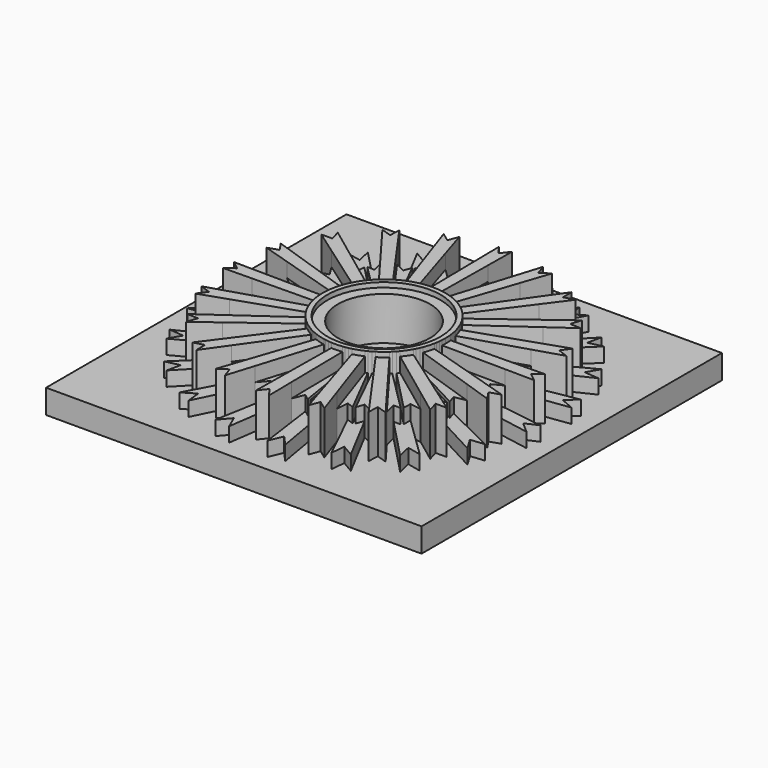
from build123d import *

# Parameters (mm, degrees)
F1_W     = 77.97701
F1_H     = 77.97701
F2_DEPTH = 5
F3_DEPTH = 3
F4_DEPTH = 6
F0_R     = 11.767241
F0_R_2   = 9.554921
F5_DEPTH = 9
F6_DEPTH = 10


with BuildPart() as f2:
    # F1 (on face) → F2 (new body)
    with BuildSketch(Plane.XY):
        Rectangle(F1_W, F1_H)
    extrude(amount=-F2_DEPTH)

    # F0 (on Top) → F3 (join)
    with BuildSketch(Plane.XY):
        with BuildLine():
            Line((4.330843, -24.487549), (2.609234, -12.467034))
            ThreePointArc((2.609234, -12.467034), (2.272273, -12.532829), (1.933662, -12.589519))
            Line((1.933662, -12.589519), (3.851701, -24.605483))
            Line((3.851701, -24.605483), (2.640996, -23.701126))
            Line((2.640996, -23.701126), (4.277403, -35.529581))
            Line((4.277403, -35.529581), (5.46514, -32.738343))
            Line((5.46514, -32.738343), (7.420602, -34.936777))
            Line((7.420602, -34.936777), (5.377834, -23.155001))
            Line((5.377834, -23.155001), (4.330843, -24.487549))
        make_face()
        with BuildLine():
            Line((11.685945, -21.950738), (6.334054, -11.050556))
            ThreePointArc((6.334054, -11.050556), (6.033918, -11.217258), (5.729397, -11.375809))
            Line((5.729397, -11.375809), (11.266698, -22.210964))
            Line((11.266698, -22.210964), (9.835788, -21.724998))
            Line((9.835788, -21.724998), (15.047296, -32.468849))
            Line((15.047296, -32.468849), (15.314361, -29.447193))
            Line((15.314361, -29.447193), (17.85347, -30.933757))
            Line((17.85347, -30.933757), (12.269913, -20.359873))
            Line((12.269913, -20.359873), (11.685945, -21.950738))
        make_face()
        with BuildLine():
            Line((17.897146, -17.265237), (9.438853, -8.552373))
            ThreePointArc((9.438853, -8.552373), (9.20492, -8.803663), (8.964299, -9.048556))
            Line((8.964299, -9.048556), (17.578832, -17.642281))
            Line((17.578832, -17.642281), (16.067783, -17.622275))
            Line((16.067783, -17.622275), (24.344255, -26.229841))
            Line((24.344255, -26.229841), (23.664506, -23.273547))
            Line((23.664506, -23.273547), (26.538716, -23.902726))
            Line((26.538716, -23.902726), (17.960927, -15.571778))
            Line((17.960927, -15.571778), (17.897146, -17.265237))
        make_face()
        with BuildLine():
            Line((22.356449, -10.889694), (11.619711, -5.217024))
            ThreePointArc((11.619711, -5.217024), (11.47488, -5.528304), (11.321713, -5.835568))
            Line((11.321713, -5.835568), (22.170227, -11.346648))
            Line((22.170227, -11.346648), (20.726953, -11.794562))
            Line((20.726953, -11.794562), (31.258229, -17.423272))
            Line((31.258229, -17.423272), (29.698204, -14.821724))
            Line((29.698204, -14.821724), (32.626167, -14.531929))
            Line((32.626167, -14.531929), (21.893801, -9.259409))
            Line((21.893801, -9.259409), (22.356449, -10.889694))
        make_face()
        with BuildLine():
            Line((24.627347, -3.448192), (12.663151, -1.370997))
            ThreePointArc((12.663151, -1.370997), (12.6216, -1.711797), (12.570878, -2.051353))
            Line((12.570878, -2.051353), (24.591446, -3.940327))
            Line((24.591446, -3.940327), (23.357223, -4.812314))
            Line((23.357223, -4.812314), (35.11243, -6.911192))
            Line((35.11243, -6.911192), (32.824835, -4.919047))
            Line((32.824835, -4.919047), (35.519942, -3.738646))
            Line((35.519942, -3.738646), (23.683557, -2.040665))
            Line((23.683557, -2.040665), (24.627347, -3.448192))
        make_face()
        with BuildLine():
            ThreePointArc((12.467034, 2.609234), (12.532829, 2.272273), (12.589519, 1.933662))
            Line((12.589519, 1.933662), (24.605483, 3.851701))
            Line((24.605483, 3.851701), (23.701126, 2.640996))
            Line((23.701126, 2.640996), (35.529581, 4.277403))
            Line((35.529581, 4.277403), (32.738343, 5.46514))
            Line((32.738343, 5.46514), (34.936777, 7.420602))
            Line((34.936777, 7.420602), (23.155001, 5.377834))
            Line((23.155001, 5.377834), (24.487549, 4.330843))
            Line((24.487549, 4.330843), (12.467034, 2.609234))
        make_face()
        with BuildLine():
            ThreePointArc((11.050556, 6.334054), (11.217258, 6.033918), (11.375809, 5.729397))
            Line((11.375809, 5.729397), (22.210964, 11.266698))
            Line((22.210964, 11.266698), (21.724998, 9.835788))
            Line((21.724998, 9.835788), (32.468849, 15.047296))
            Line((32.468849, 15.047296), (29.447193, 15.314361))
            Line((29.447193, 15.314361), (30.933757, 17.85347))
            Line((30.933757, 17.85347), (20.359873, 12.269913))
            Line((20.359873, 12.269913), (21.950738, 11.685945))
            Line((21.950738, 11.685945), (11.050556, 6.334054))
        make_face()
        with BuildLine():
            ThreePointArc((8.552373, 9.438853), (8.803663, 9.20492), (9.048556, 8.964299))
            Line((9.048556, 8.964299), (17.642281, 17.578832))
            Line((17.642281, 17.578832), (17.622275, 16.067783))
            Line((17.622275, 16.067783), (26.229841, 24.344255))
            Line((26.229841, 24.344255), (23.273547, 23.664506))
            Line((23.273547, 23.664506), (23.902726, 26.538716))
            Line((23.902726, 26.538716), (15.571778, 17.960927))
            Line((15.571778, 17.960927), (17.265237, 17.897146))
            Line((17.265237, 17.897146), (8.552373, 9.438853))
        make_face()
        with BuildLine():
            ThreePointArc((5.217024, 11.619711), (5.528304, 11.47488), (5.835568, 11.321713))
            Line((5.835568, 11.321713), (11.346648, 22.170227))
            Line((11.346648, 22.170227), (11.794562, 20.726953))
            Line((11.794562, 20.726953), (17.423272, 31.258229))
            Line((17.423272, 31.258229), (14.821724, 29.698204))
            Line((14.821724, 29.698204), (14.531929, 32.626167))
            Line((14.531929, 32.626167), (9.259409, 21.893801))
            Line((9.259409, 21.893801), (10.889694, 22.356449))
            Line((10.889694, 22.356449), (5.217024, 11.619711))
        make_face()
        with BuildLine():
            ThreePointArc((1.370997, 12.663151), (1.711797, 12.6216), (2.051353, 12.570878))
            Line((2.051353, 12.570878), (3.940327, 24.591446))
            Line((3.940327, 24.591446), (4.812314, 23.357223))
            Line((4.812314, 23.357223), (6.911192, 35.11243))
            Line((6.911192, 35.11243), (4.919047, 32.824835))
            Line((4.919047, 32.824835), (3.738646, 35.519942))
            Line((3.738646, 35.519942), (2.040665, 23.683557))
            Line((2.040665, 23.683557), (3.448192, 24.627347))
            Line((3.448192, 24.627347), (1.370997, 12.663151))
        make_face()
        with BuildLine():
            ThreePointArc((-2.609234, 12.467034), (-2.272273, 12.532829), (-1.933662, 12.589519))
            Line((-1.933662, 12.589519), (-3.851701, 24.605483))
            Line((-3.851701, 24.605483), (-2.640996, 23.701126))
            Line((-2.640996, 23.701126), (-4.277403, 35.529581))
            Line((-4.277403, 35.529581), (-5.46514, 32.738343))
            Line((-5.46514, 32.738343), (-7.420602, 34.936777))
            Line((-7.420602, 34.936777), (-5.377834, 23.155001))
            Line((-5.377834, 23.155001), (-4.330843, 24.487549))
            Line((-4.330843, 24.487549), (-2.609234, 12.467034))
        make_face()
        with BuildLine():
            ThreePointArc((-6.334054, 11.050556), (-6.033918, 11.217258), (-5.729397, 11.375809))
            Line((-5.729397, 11.375809), (-11.266698, 22.210964))
            Line((-11.266698, 22.210964), (-9.835788, 21.724998))
            Line((-9.835788, 21.724998), (-15.047296, 32.468849))
            Line((-15.047296, 32.468849), (-15.314361, 29.447193))
            Line((-15.314361, 29.447193), (-17.85347, 30.933757))
            Line((-17.85347, 30.933757), (-12.269913, 20.359873))
            Line((-12.269913, 20.359873), (-11.685945, 21.950738))
            Line((-11.685945, 21.950738), (-6.334054, 11.050556))
        make_face()
        with BuildLine():
            ThreePointArc((-9.438853, 8.552373), (-9.20492, 8.803663), (-8.964299, 9.048556))
            Line((-8.964299, 9.048556), (-17.578832, 17.642281))
            Line((-17.578832, 17.642281), (-16.067783, 17.622275))
            Line((-16.067783, 17.622275), (-24.344255, 26.229841))
            Line((-24.344255, 26.229841), (-23.664506, 23.273547))
            Line((-23.664506, 23.273547), (-26.538716, 23.902726))
            Line((-26.538716, 23.902726), (-17.960927, 15.571778))
            Line((-17.960927, 15.571778), (-17.897146, 17.265237))
            Line((-17.897146, 17.265237), (-9.438853, 8.552373))
        make_face()
        with BuildLine():
            ThreePointArc((-11.619711, 5.217024), (-11.47488, 5.528304), (-11.321713, 5.835568))
            Line((-11.321713, 5.835568), (-22.170227, 11.346648))
            Line((-22.170227, 11.346648), (-20.726953, 11.794562))
            Line((-20.726953, 11.794562), (-31.258229, 17.423272))
            Line((-31.258229, 17.423272), (-29.698204, 14.821724))
            Line((-29.698204, 14.821724), (-32.626167, 14.531929))
            Line((-32.626167, 14.531929), (-21.893801, 9.259409))
            Line((-21.893801, 9.259409), (-22.356449, 10.889694))
            Line((-22.356449, 10.889694), (-11.619711, 5.217024))
        make_face()
        with BuildLine():
            ThreePointArc((-12.663151, 1.370997), (-12.6216, 1.711797), (-12.570878, 2.051353))
            Line((-12.570878, 2.051353), (-24.591446, 3.940327))
            Line((-24.591446, 3.940327), (-23.357223, 4.812314))
            Line((-23.357223, 4.812314), (-35.11243, 6.911192))
            Line((-35.11243, 6.911192), (-32.824835, 4.919047))
            Line((-32.824835, 4.919047), (-35.519942, 3.738646))
            Line((-35.519942, 3.738646), (-23.683557, 2.040665))
            Line((-23.683557, 2.040665), (-24.627347, 3.448192))
            Line((-24.627347, 3.448192), (-12.663151, 1.370997))
        make_face()
        with BuildLine():
            Line((-24.487549, -4.330843), (-12.467034, -2.609234))
            ThreePointArc((-12.467034, -2.609234), (-12.532829, -2.272273), (-12.589519, -1.933662))
            Line((-12.589519, -1.933662), (-24.605483, -3.851701))
            Line((-24.605483, -3.851701), (-23.701126, -2.640996))
            Line((-23.701126, -2.640996), (-35.529581, -4.277403))
            Line((-35.529581, -4.277403), (-32.738343, -5.46514))
            Line((-32.738343, -5.46514), (-34.936777, -7.420602))
            Line((-34.936777, -7.420602), (-23.155001, -5.377834))
            Line((-23.155001, -5.377834), (-24.487549, -4.330843))
        make_face()
        with BuildLine():
            Line((-21.950738, -11.685945), (-11.050556, -6.334054))
            ThreePointArc((-11.050556, -6.334054), (-11.217258, -6.033918), (-11.375809, -5.729397))
            Line((-11.375809, -5.729397), (-22.210964, -11.266698))
            Line((-22.210964, -11.266698), (-21.724998, -9.835788))
            Line((-21.724998, -9.835788), (-32.468849, -15.047296))
            Line((-32.468849, -15.047296), (-29.447193, -15.314361))
            Line((-29.447193, -15.314361), (-30.933757, -17.85347))
            Line((-30.933757, -17.85347), (-20.359873, -12.269913))
            Line((-20.359873, -12.269913), (-21.950738, -11.685945))
        make_face()
        with BuildLine():
            Line((-17.265237, -17.897146), (-8.552373, -9.438853))
            ThreePointArc((-8.552373, -9.438853), (-8.803663, -9.20492), (-9.048556, -8.964299))
            Line((-9.048556, -8.964299), (-17.642281, -17.578832))
            Line((-17.642281, -17.578832), (-17.622275, -16.067783))
            Line((-17.622275, -16.067783), (-26.229841, -24.344255))
            Line((-26.229841, -24.344255), (-23.273547, -23.664506))
            Line((-23.273547, -23.664506), (-23.902726, -26.538716))
            Line((-23.902726, -26.538716), (-15.571778, -17.960927))
            Line((-15.571778, -17.960927), (-17.265237, -17.897146))
        make_face()
        with BuildLine():
            Line((-10.889694, -22.356449), (-5.217024, -11.619711))
            ThreePointArc((-5.217024, -11.619711), (-5.528304, -11.47488), (-5.835568, -11.321713))
            Line((-5.835568, -11.321713), (-11.346648, -22.170227))
            Line((-11.346648, -22.170227), (-11.794562, -20.726953))
            Line((-11.794562, -20.726953), (-17.423272, -31.258229))
            Line((-17.423272, -31.258229), (-14.821724, -29.698204))
            Line((-14.821724, -29.698204), (-14.531929, -32.626167))
            Line((-14.531929, -32.626167), (-9.259409, -21.893801))
            Line((-9.259409, -21.893801), (-10.889694, -22.356449))
        make_face()
        with BuildLine():
            Line((-3.448192, -24.627347), (-1.370997, -12.663151))
            ThreePointArc((-1.370997, -12.663151), (-1.711797, -12.6216), (-2.051353, -12.570878))
            Line((-2.051353, -12.570878), (-3.940327, -24.591446))
            Line((-3.940327, -24.591446), (-4.812314, -23.357223))
            Line((-4.812314, -23.357223), (-6.911192, -35.11243))
            Line((-6.911192, -35.11243), (-4.919047, -32.824835))
            Line((-4.919047, -32.824835), (-3.738646, -35.519942))
            Line((-3.738646, -35.519942), (-2.040665, -23.683557))
            Line((-2.040665, -23.683557), (-3.448192, -24.627347))
        make_face()
    extrude(amount=F3_DEPTH)

    # F0 (on Top) → F4 (join)
    with BuildSketch(Plane.XY):
        with BuildLine():
            ThreePointArc((-5.729397, 11.375809), (-5.521232, 11.478285), (-5.311235, 11.576952))
            Line((-5.311235, 11.576952), (-9.652416, 24.318759))
            Line((-9.652416, 24.318759), (-9.835788, 21.724998))
            Line((-9.835788, 21.724998), (-11.266698, 22.210964))
            Line((-11.266698, 22.210964), (-5.729397, 11.375809))
        make_face()
        with BuildLine():
            ThreePointArc((-6.846388, 10.74067), (-6.592042, 10.898624), (-6.334054, 11.050556))
            Line((-6.334054, 11.050556), (-11.685945, 21.950738))
            Line((-11.685945, 21.950738), (-12.269913, 20.359873))
            Line((-12.269913, 20.359873), (-14.431794, 21.43893))
            Line((-14.431794, 21.43893), (-6.846388, 10.74067))
        make_face()
        with BuildLine():
            ThreePointArc((-8.964299, 9.048556), (-8.797989, 9.210343), (-8.62876, 9.369073))
            Line((-8.62876, 9.369073), (-16.694903, 20.145754))
            Line((-16.694903, 20.145754), (-16.067783, 17.622275))
            Line((-16.067783, 17.622275), (-17.578832, 17.642281))
            Line((-17.578832, 17.642281), (-8.964299, 9.048556))
        make_face()
        with BuildLine():
            ThreePointArc((-9.830352, 8.099334), (-9.637265, 8.328154), (-9.438853, 8.552373))
            Line((-9.438853, 8.552373), (-17.897146, 17.265237))
            Line((-17.897146, 17.265237), (-17.960927, 15.571778))
            Line((-17.960927, 15.571778), (-20.350445, 15.929964))
            Line((-20.350445, 15.929964), (-9.830352, 8.099334))
        make_face()
        with BuildLine():
            ThreePointArc((-11.321713, 5.835568), (-11.213537, 6.040829), (-11.101641, 6.244085))
            Line((-11.101641, 6.244085), (-22.103177, 14.000741))
            Line((-22.103177, 14.000741), (-20.726953, 11.794562))
            Line((-20.726953, 11.794562), (-22.170227, 11.346648))
            Line((-22.170227, 11.346648), (-11.321713, 5.835568))
        make_face()
        with BuildLine():
            ThreePointArc((-11.852052, 4.665179), (-11.739125, 4.942467), (-11.619711, 5.217024))
            Line((-11.619711, 5.217024), (-22.356449, 10.889694))
            Line((-22.356449, 10.889694), (-21.893801, 9.259409))
            Line((-21.893801, 9.259409), (-24.277053, 8.861663))
            Line((-24.277053, 8.861663), (-11.852052, 4.665179))
        make_face()
        with BuildLine():
            ThreePointArc((-12.570878, 2.051353), (-12.531426, 2.279996), (-12.487816, 2.507882))
            Line((-12.487816, 2.507882), (-25.347837, 6.485239))
            Line((-25.347837, 6.485239), (-23.357223, 4.812314))
            Line((-23.357223, 4.812314), (-24.591446, 3.940327))
            Line((-24.591446, 3.940327), (-12.570878, 2.051353))
        make_face()
        with BuildLine():
            ThreePointArc((-12.713591, 0.774363), (-12.691877, 1.072976), (-12.663151, 1.370997))
            Line((-12.663151, 1.370997), (-24.627347, 3.448192))
            Line((-24.627347, 3.448192), (-23.683557, 2.040665))
            Line((-23.683557, 2.040665), (-25.827254, 0.92592))
            Line((-25.827254, 0.92592), (-12.713591, 0.774363))
        make_face()
        with BuildLine():
            Line((-24.605483, -3.851701), (-12.589519, -1.933662))
            ThreePointArc((-12.589519, -1.933662), (-12.622652, -1.704019), (-12.651597, -1.47381))
            Line((-12.651597, -1.47381), (-26.111275, -1.665083))
            Line((-26.111275, -1.665083), (-23.701126, -2.640996))
            Line((-23.701126, -2.640996), (-24.605483, -3.851701))
        make_face()
        with BuildLine():
            Line((-24.849303, -7.100458), (-12.330635, -3.192253))
            ThreePointArc((-12.330635, -3.192253), (-12.402261, -2.901545), (-12.467034, -2.609234))
            Line((-12.467034, -2.609234), (-24.487549, -4.330843))
            Line((-24.487549, -4.330843), (-23.155001, -5.377834))
            Line((-23.155001, -5.377834), (-24.849303, -7.100458))
        make_face()
        with BuildLine():
            Line((-22.210964, -11.266698), (-11.375809, -5.729397))
            ThreePointArc((-11.375809, -5.729397), (-11.478285, -5.521232), (-11.576952, -5.311235))
            Line((-11.576952, -5.311235), (-24.318759, -9.652416))
            Line((-24.318759, -9.652416), (-21.724998, -9.835788))
            Line((-21.724998, -9.835788), (-22.210964, -11.266698))
        make_face()
        with BuildLine():
            Line((-21.43893, -14.431794), (-10.74067, -6.846388))
            ThreePointArc((-10.74067, -6.846388), (-10.898624, -6.592042), (-11.050556, -6.334054))
            Line((-11.050556, -6.334054), (-21.950738, -11.685945))
            Line((-21.950738, -11.685945), (-20.359873, -12.269913))
            Line((-20.359873, -12.269913), (-21.43893, -14.431794))
        make_face()
        with BuildLine():
            Line((-17.642281, -17.578832), (-9.048556, -8.964299))
            ThreePointArc((-9.048556, -8.964299), (-9.210343, -8.797989), (-9.369073, -8.62876))
            Line((-9.369073, -8.62876), (-20.145754, -16.694903))
            Line((-20.145754, -16.694903), (-17.622275, -16.067783))
            Line((-17.622275, -16.067783), (-17.642281, -17.578832))
        make_face()
        with BuildLine():
            Line((-15.929964, -20.350445), (-8.099334, -9.830352))
            ThreePointArc((-8.099334, -9.830352), (-8.328154, -9.637265), (-8.552373, -9.438853))
            Line((-8.552373, -9.438853), (-17.265237, -17.897146))
            Line((-17.265237, -17.897146), (-15.571778, -17.960927))
            Line((-15.571778, -17.960927), (-15.929964, -20.350445))
        make_face()
        with BuildLine():
            Line((-11.346648, -22.170227), (-5.835568, -11.321713))
            ThreePointArc((-5.835568, -11.321713), (-6.040829, -11.213537), (-6.244085, -11.101641))
            Line((-6.244085, -11.101641), (-14.000741, -22.103177))
            Line((-14.000741, -22.103177), (-11.794562, -20.726953))
            Line((-11.794562, -20.726953), (-11.346648, -22.170227))
        make_face()
        with BuildLine():
            Line((-8.861663, -24.277053), (-4.665179, -11.852052))
            ThreePointArc((-4.665179, -11.852052), (-4.942467, -11.739125), (-5.217024, -11.619711))
            Line((-5.217024, -11.619711), (-10.889694, -22.356449))
            Line((-10.889694, -22.356449), (-9.259409, -21.893801))
            Line((-9.259409, -21.893801), (-8.861663, -24.277053))
        make_face()
        with BuildLine():
            Line((-3.940327, -24.591446), (-2.051353, -12.570878))
            ThreePointArc((-2.051353, -12.570878), (-2.279996, -12.531426), (-2.507882, -12.487816))
            Line((-2.507882, -12.487816), (-6.485239, -25.347837))
            Line((-6.485239, -25.347837), (-4.812314, -23.357223))
            Line((-4.812314, -23.357223), (-3.940327, -24.591446))
        make_face()
        with BuildLine():
            Line((-0.92592, -25.827254), (-0.774363, -12.713591))
            ThreePointArc((-0.774363, -12.713591), (-1.072976, -12.691877), (-1.370997, -12.663151))
            Line((-1.370997, -12.663151), (-3.448192, -24.627347))
            Line((-3.448192, -24.627347), (-2.040665, -23.683557))
            Line((-2.040665, -23.683557), (-0.92592, -25.827254))
        make_face()
        with BuildLine():
            Line((3.851701, -24.605483), (1.933662, -12.589519))
            ThreePointArc((1.933662, -12.589519), (1.704019, -12.622652), (1.47381, -12.651597))
            Line((1.47381, -12.651597), (1.665083, -26.111275))
            Line((1.665083, -26.111275), (2.640996, -23.701126))
            Line((2.640996, -23.701126), (3.851701, -24.605483))
        make_face()
        with BuildLine():
            Line((7.100458, -24.849303), (3.192253, -12.330635))
            ThreePointArc((3.192253, -12.330635), (2.901545, -12.402261), (2.609234, -12.467034))
            Line((2.609234, -12.467034), (4.330843, -24.487549))
            Line((4.330843, -24.487549), (5.377834, -23.155001))
            Line((5.377834, -23.155001), (7.100458, -24.849303))
        make_face()
        with BuildLine():
            Line((11.266698, -22.210964), (5.729397, -11.375809))
            ThreePointArc((5.729397, -11.375809), (5.521232, -11.478285), (5.311235, -11.576952))
            Line((5.311235, -11.576952), (9.652416, -24.318759))
            Line((9.652416, -24.318759), (9.835788, -21.724998))
            Line((9.835788, -21.724998), (11.266698, -22.210964))
        make_face()
        with BuildLine():
            Line((14.431794, -21.43893), (6.846388, -10.74067))
            ThreePointArc((6.846388, -10.74067), (6.592042, -10.898624), (6.334054, -11.050556))
            Line((6.334054, -11.050556), (11.685945, -21.950738))
            Line((11.685945, -21.950738), (12.269913, -20.359873))
            Line((12.269913, -20.359873), (14.431794, -21.43893))
        make_face()
        with BuildLine():
            Line((17.578832, -17.642281), (8.964299, -9.048556))
            ThreePointArc((8.964299, -9.048556), (8.797989, -9.210343), (8.62876, -9.369073))
            Line((8.62876, -9.369073), (16.694903, -20.145754))
            Line((16.694903, -20.145754), (16.067783, -17.622275))
            Line((16.067783, -17.622275), (17.578832, -17.642281))
        make_face()
        with BuildLine():
            Line((20.350445, -15.929964), (9.830352, -8.099334))
            ThreePointArc((9.830352, -8.099334), (9.637265, -8.328154), (9.438853, -8.552373))
            Line((9.438853, -8.552373), (17.897146, -17.265237))
            Line((17.897146, -17.265237), (17.960927, -15.571778))
            Line((17.960927, -15.571778), (20.350445, -15.929964))
        make_face()
        with BuildLine():
            Line((22.170227, -11.346648), (11.321713, -5.835568))
            ThreePointArc((11.321713, -5.835568), (11.213537, -6.040829), (11.101641, -6.244085))
            Line((11.101641, -6.244085), (22.103177, -14.000741))
            Line((22.103177, -14.000741), (20.726953, -11.794562))
            Line((20.726953, -11.794562), (22.170227, -11.346648))
        make_face()
        with BuildLine():
            Line((24.277053, -8.861663), (11.852052, -4.665179))
            ThreePointArc((11.852052, -4.665179), (11.739125, -4.942467), (11.619711, -5.217024))
            Line((11.619711, -5.217024), (22.356449, -10.889694))
            Line((22.356449, -10.889694), (21.893801, -9.259409))
            Line((21.893801, -9.259409), (24.277053, -8.861663))
        make_face()
        with BuildLine():
            Line((24.591446, -3.940327), (12.570878, -2.051353))
            ThreePointArc((12.570878, -2.051353), (12.531426, -2.279996), (12.487816, -2.507882))
            Line((12.487816, -2.507882), (25.347837, -6.485239))
            Line((25.347837, -6.485239), (23.357223, -4.812314))
            Line((23.357223, -4.812314), (24.591446, -3.940327))
        make_face()
        with BuildLine():
            Line((25.827254, -0.92592), (12.713591, -0.774363))
            ThreePointArc((12.713591, -0.774363), (12.691877, -1.072976), (12.663151, -1.370997))
            Line((12.663151, -1.370997), (24.627347, -3.448192))
            Line((24.627347, -3.448192), (23.683557, -2.040665))
            Line((23.683557, -2.040665), (25.827254, -0.92592))
        make_face()
        with BuildLine():
            ThreePointArc((12.589519, 1.933662), (12.622652, 1.704019), (12.651597, 1.47381))
            Line((12.651597, 1.47381), (26.111275, 1.665083))
            Line((26.111275, 1.665083), (23.701126, 2.640996))
            Line((23.701126, 2.640996), (24.605483, 3.851701))
            Line((24.605483, 3.851701), (12.589519, 1.933662))
        make_face()
        with BuildLine():
            ThreePointArc((12.330635, 3.192253), (12.402261, 2.901545), (12.467034, 2.609234))
            Line((12.467034, 2.609234), (24.487549, 4.330843))
            Line((24.487549, 4.330843), (23.155001, 5.377834))
            Line((23.155001, 5.377834), (24.849303, 7.100458))
            Line((24.849303, 7.100458), (12.330635, 3.192253))
        make_face()
        with BuildLine():
            ThreePointArc((11.375809, 5.729397), (11.478285, 5.521232), (11.576952, 5.311235))
            Line((11.576952, 5.311235), (24.318759, 9.652416))
            Line((24.318759, 9.652416), (21.724998, 9.835788))
            Line((21.724998, 9.835788), (22.210964, 11.266698))
            Line((22.210964, 11.266698), (11.375809, 5.729397))
        make_face()
        with BuildLine():
            ThreePointArc((10.74067, 6.846388), (10.898624, 6.592042), (11.050556, 6.334054))
            Line((11.050556, 6.334054), (21.950738, 11.685945))
            Line((21.950738, 11.685945), (20.359873, 12.269913))
            Line((20.359873, 12.269913), (21.43893, 14.431794))
            Line((21.43893, 14.431794), (10.74067, 6.846388))
        make_face()
        with BuildLine():
            ThreePointArc((9.048556, 8.964299), (9.210343, 8.797989), (9.369073, 8.62876))
            Line((9.369073, 8.62876), (20.145754, 16.694903))
            Line((20.145754, 16.694903), (17.622275, 16.067783))
            Line((17.622275, 16.067783), (17.642281, 17.578832))
            Line((17.642281, 17.578832), (9.048556, 8.964299))
        make_face()
        with BuildLine():
            ThreePointArc((8.099334, 9.830352), (8.328154, 9.637265), (8.552373, 9.438853))
            Line((8.552373, 9.438853), (17.265237, 17.897146))
            Line((17.265237, 17.897146), (15.571778, 17.960927))
            Line((15.571778, 17.960927), (15.929964, 20.350445))
            Line((15.929964, 20.350445), (8.099334, 9.830352))
        make_face()
        with BuildLine():
            ThreePointArc((5.835568, 11.321713), (6.040829, 11.213537), (6.244085, 11.101641))
            Line((6.244085, 11.101641), (14.000741, 22.103177))
            Line((14.000741, 22.103177), (11.794562, 20.726953))
            Line((11.794562, 20.726953), (11.346648, 22.170227))
            Line((11.346648, 22.170227), (5.835568, 11.321713))
        make_face()
        with BuildLine():
            ThreePointArc((4.665179, 11.852052), (4.942467, 11.739125), (5.217024, 11.619711))
            Line((5.217024, 11.619711), (10.889694, 22.356449))
            Line((10.889694, 22.356449), (9.259409, 21.893801))
            Line((9.259409, 21.893801), (8.861663, 24.277053))
            Line((8.861663, 24.277053), (4.665179, 11.852052))
        make_face()
        with BuildLine():
            ThreePointArc((2.051353, 12.570878), (2.279996, 12.531426), (2.507882, 12.487816))
            Line((2.507882, 12.487816), (6.485239, 25.347837))
            Line((6.485239, 25.347837), (4.812314, 23.357223))
            Line((4.812314, 23.357223), (3.940327, 24.591446))
            Line((3.940327, 24.591446), (2.051353, 12.570878))
        make_face()
        with BuildLine():
            ThreePointArc((0.774363, 12.713591), (1.072976, 12.691877), (1.370997, 12.663151))
            Line((1.370997, 12.663151), (3.448192, 24.627347))
            Line((3.448192, 24.627347), (2.040665, 23.683557))
            Line((2.040665, 23.683557), (0.92592, 25.827254))
            Line((0.92592, 25.827254), (0.774363, 12.713591))
        make_face()
        with BuildLine():
            ThreePointArc((-1.933662, 12.589519), (-1.704019, 12.622652), (-1.47381, 12.651597))
            Line((-1.47381, 12.651597), (-1.665083, 26.111275))
            Line((-1.665083, 26.111275), (-2.640996, 23.701126))
            Line((-2.640996, 23.701126), (-3.851701, 24.605483))
            Line((-3.851701, 24.605483), (-1.933662, 12.589519))
        make_face()
        with BuildLine():
            ThreePointArc((-3.192253, 12.330635), (-2.901545, 12.402261), (-2.609234, 12.467034))
            Line((-2.609234, 12.467034), (-4.330843, 24.487549))
            Line((-4.330843, 24.487549), (-5.377834, 23.155001))
            Line((-5.377834, 23.155001), (-7.100458, 24.849303))
            Line((-7.100458, 24.849303), (-3.192253, 12.330635))
        make_face()
    extrude(amount=F4_DEPTH)

    # F0 (on Top) → F5 (join)
    with BuildSketch(Plane.XY):
        with BuildLine():
            ThreePointArc((-11.101641, 6.244085), (-10.507025, 7.199824), (-9.830352, 8.099334))
            Line((-9.830352, 8.099334), (-20.350445, 15.929964))
            Line((-20.350445, 15.929964), (-25.277926, 19.597733))
            Line((-25.277926, 19.597733), (-24.66636, 17.423272))
            Line((-24.66636, 17.423272), (-26.957471, 17.423272))
            Line((-26.957471, 17.423272), (-22.103177, 14.000741))
            Line((-22.103177, 14.000741), (-11.101641, 6.244085))
        make_face()
        with BuildLine():
            ThreePointArc((-12.487816, 2.507882), (-12.217642, 3.60059), (-11.852052, 4.665179))
            Line((-11.852052, 4.665179), (-24.277053, 8.861663))
            Line((-24.277053, 8.861663), (-30.096769, 10.827243))
            Line((-30.096769, 10.827243), (-28.843189, 8.948192))
            Line((-28.843189, 8.948192), (-31.022166, 8.2402))
            Line((-31.022166, 8.2402), (-25.347837, 6.485239))
            Line((-25.347837, 6.485239), (-12.487816, 2.507882))
        make_face()
        with BuildLine():
            ThreePointArc((-12.651597, -1.47381), (-12.732312, -0.351094), (-12.713591, 0.774363))
            Line((-12.713591, 0.774363), (-25.827254, 0.92592))
            Line((-25.827254, 0.92592), (-31.96953, 0.996907))
            Line((-31.96953, 0.996907), (-30.196647, -0.402799))
            Line((-30.196647, -0.402799), (-32.050195, -1.749481))
            Line((-32.050195, -1.749481), (-26.111275, -1.665083))
            Line((-26.111275, -1.665083), (-12.651597, -1.47381))
        make_face()
        with BuildLine():
            Line((-24.318759, -9.652416), (-11.576952, -5.311235))
            ThreePointArc((-11.576952, -5.311235), (-12.000654, -4.268411), (-12.330635, -3.192253))
            Line((-12.330635, -3.192253), (-24.849303, -7.100458))
            Line((-24.849303, -7.100458), (-30.712891, -8.931013))
            Line((-30.712891, -8.931013), (-28.594246, -9.714362))
            Line((-28.594246, -9.714362), (-29.940927, -11.56791))
            Line((-29.940927, -11.56791), (-24.318759, -9.652416))
        make_face()
        with BuildLine():
            Line((-20.145754, -16.694903), (-9.369073, -8.62876))
            ThreePointArc((-9.369073, -8.62876), (-10.094288, -7.767906), (-10.74067, -6.846388))
            Line((-10.74067, -6.846388), (-21.43893, -14.431794))
            Line((-21.43893, -14.431794), (-26.449861, -17.984703))
            Line((-26.449861, -17.984703), (-24.192841, -18.075015))
            Line((-24.192841, -18.075015), (-24.900833, -20.253991))
            Line((-24.900833, -20.253991), (-20.145754, -16.694903))
        make_face()
        with BuildLine():
            Line((-14.000741, -22.103177), (-6.244085, -11.101641))
            ThreePointArc((-6.244085, -11.101641), (-7.199824, -10.507025), (-8.099334, -9.830352))
            Line((-8.099334, -9.830352), (-15.929964, -20.350445))
            Line((-15.929964, -20.350445), (-19.597733, -25.277926))
            Line((-19.597733, -25.277926), (-17.423272, -24.66636))
            Line((-17.423272, -24.66636), (-17.423272, -26.957471))
            Line((-17.423272, -26.957471), (-14.000741, -22.103177))
        make_face()
        with BuildLine():
            Line((-6.485239, -25.347837), (-2.507882, -12.487816))
            ThreePointArc((-2.507882, -12.487816), (-3.60059, -12.217642), (-4.665179, -11.852052))
            Line((-4.665179, -11.852052), (-8.861663, -24.277053))
            Line((-8.861663, -24.277053), (-10.827243, -30.096769))
            Line((-10.827243, -30.096769), (-8.948192, -28.843189))
            Line((-8.948192, -28.843189), (-8.2402, -31.022166))
            Line((-8.2402, -31.022166), (-6.485239, -25.347837))
        make_face()
        with BuildLine():
            Line((1.665083, -26.111275), (1.47381, -12.651597))
            ThreePointArc((1.47381, -12.651597), (0.351094, -12.732312), (-0.774363, -12.713591))
            Line((-0.774363, -12.713591), (-0.92592, -25.827254))
            Line((-0.92592, -25.827254), (-0.996907, -31.96953))
            Line((-0.996907, -31.96953), (0.402799, -30.196647))
            Line((0.402799, -30.196647), (1.749481, -32.050195))
            Line((1.749481, -32.050195), (1.665083, -26.111275))
        make_face()
        with BuildLine():
            Line((9.652416, -24.318759), (5.311235, -11.576952))
            ThreePointArc((5.311235, -11.576952), (4.268411, -12.000654), (3.192253, -12.330635))
            Line((3.192253, -12.330635), (7.100458, -24.849303))
            Line((7.100458, -24.849303), (8.931013, -30.712891))
            Line((8.931013, -30.712891), (9.714362, -28.594246))
            Line((9.714362, -28.594246), (11.56791, -29.940927))
            Line((11.56791, -29.940927), (9.652416, -24.318759))
        make_face()
        with BuildLine():
            Line((16.694903, -20.145754), (8.62876, -9.369073))
            ThreePointArc((8.62876, -9.369073), (7.767906, -10.094288), (6.846388, -10.74067))
            Line((6.846388, -10.74067), (14.431794, -21.43893))
            Line((14.431794, -21.43893), (17.984703, -26.449861))
            Line((17.984703, -26.449861), (18.075015, -24.192841))
            Line((18.075015, -24.192841), (20.253991, -24.900833))
            Line((20.253991, -24.900833), (16.694903, -20.145754))
        make_face()
        with BuildLine():
            Line((22.103177, -14.000741), (11.101641, -6.244085))
            ThreePointArc((11.101641, -6.244085), (10.507025, -7.199824), (9.830352, -8.099334))
            Line((9.830352, -8.099334), (20.350445, -15.929964))
            Line((20.350445, -15.929964), (25.277926, -19.597733))
            Line((25.277926, -19.597733), (24.66636, -17.423272))
            Line((24.66636, -17.423272), (26.957471, -17.423272))
            Line((26.957471, -17.423272), (22.103177, -14.000741))
        make_face()
        with BuildLine():
            Line((25.347837, -6.485239), (12.487816, -2.507882))
            ThreePointArc((12.487816, -2.507882), (12.217642, -3.60059), (11.852052, -4.665179))
            Line((11.852052, -4.665179), (24.277053, -8.861663))
            Line((24.277053, -8.861663), (30.096769, -10.827243))
            Line((30.096769, -10.827243), (28.843189, -8.948192))
            Line((28.843189, -8.948192), (31.022166, -8.2402))
            Line((31.022166, -8.2402), (25.347837, -6.485239))
        make_face()
        with BuildLine():
            ThreePointArc((12.651597, 1.47381), (12.715745, 0.738145), (12.737152, 0))
            ThreePointArc((12.737152, 0), (12.73126, -0.387361), (12.713591, -0.774363))
            Line((12.713591, -0.774363), (25.827254, -0.92592))
            Line((25.827254, -0.92592), (31.96953, -0.996907))
            Line((31.96953, -0.996907), (30.196647, 0.402799))
            Line((30.196647, 0.402799), (32.050195, 1.749481))
            Line((32.050195, 1.749481), (26.111275, 1.665083))
            Line((26.111275, 1.665083), (12.651597, 1.47381))
        make_face()
        with BuildLine():
            ThreePointArc((11.576952, 5.311235), (12.000654, 4.268411), (12.330635, 3.192253))
            Line((12.330635, 3.192253), (24.849303, 7.100458))
            Line((24.849303, 7.100458), (30.712891, 8.931013))
            Line((30.712891, 8.931013), (28.594246, 9.714362))
            Line((28.594246, 9.714362), (29.940927, 11.56791))
            Line((29.940927, 11.56791), (24.318759, 9.652416))
            Line((24.318759, 9.652416), (11.576952, 5.311235))
        make_face()
        with BuildLine():
            ThreePointArc((9.369073, 8.62876), (10.094288, 7.767906), (10.74067, 6.846388))
            Line((10.74067, 6.846388), (21.43893, 14.431794))
            Line((21.43893, 14.431794), (26.449861, 17.984703))
            Line((26.449861, 17.984703), (24.192841, 18.075015))
            Line((24.192841, 18.075015), (24.900833, 20.253991))
            Line((24.900833, 20.253991), (20.145754, 16.694903))
            Line((20.145754, 16.694903), (9.369073, 8.62876))
        make_face()
        with BuildLine():
            ThreePointArc((6.244085, 11.101641), (7.199824, 10.507025), (8.099334, 9.830352))
            Line((8.099334, 9.830352), (15.929964, 20.350445))
            Line((15.929964, 20.350445), (19.597733, 25.277926))
            Line((19.597733, 25.277926), (17.423272, 24.66636))
            Line((17.423272, 24.66636), (17.423272, 26.957471))
            Line((17.423272, 26.957471), (14.000741, 22.103177))
            Line((14.000741, 22.103177), (6.244085, 11.101641))
        make_face()
        with BuildLine():
            ThreePointArc((2.507882, 12.487816), (3.60059, 12.217642), (4.665179, 11.852052))
            Line((4.665179, 11.852052), (8.861663, 24.277053))
            Line((8.861663, 24.277053), (10.827243, 30.096769))
            Line((10.827243, 30.096769), (8.948192, 28.843189))
            Line((8.948192, 28.843189), (8.2402, 31.022166))
            Line((8.2402, 31.022166), (6.485239, 25.347837))
            Line((6.485239, 25.347837), (2.507882, 12.487816))
        make_face()
        with BuildLine():
            ThreePointArc((-1.47381, 12.651597), (-0.351094, 12.732312), (0.774363, 12.713591))
            Line((0.774363, 12.713591), (0.92592, 25.827254))
            Line((0.92592, 25.827254), (0.996907, 31.96953))
            Line((0.996907, 31.96953), (-0.402799, 30.196647))
            Line((-0.402799, 30.196647), (-1.749481, 32.050195))
            Line((-1.749481, 32.050195), (-1.665083, 26.111275))
            Line((-1.665083, 26.111275), (-1.47381, 12.651597))
        make_face()
        with BuildLine():
            ThreePointArc((-5.311235, 11.576952), (-4.268411, 12.000654), (-3.192253, 12.330635))
            Line((-3.192253, 12.330635), (-7.100458, 24.849303))
            Line((-7.100458, 24.849303), (-8.931013, 30.712891))
            Line((-8.931013, 30.712891), (-9.714362, 28.594246))
            Line((-9.714362, 28.594246), (-11.56791, 29.940927))
            Line((-11.56791, 29.940927), (-9.652416, 24.318759))
            Line((-9.652416, 24.318759), (-5.311235, 11.576952))
        make_face()
        with BuildLine():
            ThreePointArc((-8.62876, 9.369073), (-7.767906, 10.094288), (-6.846388, 10.74067))
            Line((-6.846388, 10.74067), (-14.431794, 21.43893))
            Line((-14.431794, 21.43893), (-17.984703, 26.449861))
            Line((-17.984703, 26.449861), (-18.075015, 24.192841))
            Line((-18.075015, 24.192841), (-20.253991, 24.900833))
            Line((-20.253991, 24.900833), (-16.694903, 20.145754))
            Line((-16.694903, 20.145754), (-8.62876, 9.369073))
        make_face()
        Circle(F0_R)
        Circle(F0_R_2, mode=Mode.SUBTRACT)
    extrude(amount=F5_DEPTH)

    # F0 (on Top) → F6 (join)
    with BuildSketch(Plane.XY):
        with BuildLine():
            ThreePointArc((12.713591, -0.774363), (12.73126, -0.387361), (12.737152, 0))
            ThreePointArc((12.737152, 0), (12.715745, 0.738145), (12.651597, 1.47381))
            ThreePointArc((12.651597, 1.47381), (12.622652, 1.704019), (12.589519, 1.933662))
            ThreePointArc((12.589519, 1.933662), (12.532829, 2.272273), (12.467034, 2.609234))
            ThreePointArc((12.467034, 2.609234), (12.402261, 2.901545), (12.330635, 3.192253))
            ThreePointArc((12.330635, 3.192253), (12.000654, 4.268411), (11.576952, 5.311235))
            ThreePointArc((11.576952, 5.311235), (11.478285, 5.521232), (11.375809, 5.729397))
            ThreePointArc((11.375809, 5.729397), (11.217258, 6.033918), (11.050556, 6.334054))
            ThreePointArc((11.050556, 6.334054), (10.898624, 6.592042), (10.74067, 6.846388))
            ThreePointArc((10.74067, 6.846388), (10.094288, 7.767906), (9.369073, 8.62876))
            ThreePointArc((9.369073, 8.62876), (9.210343, 8.797989), (9.048556, 8.964299))
            ThreePointArc((9.048556, 8.964299), (8.803663, 9.20492), (8.552373, 9.438853))
            ThreePointArc((8.552373, 9.438853), (8.328154, 9.637265), (8.099334, 9.830352))
            ThreePointArc((8.099334, 9.830352), (7.199824, 10.507025), (6.244085, 11.101641))
            ThreePointArc((6.244085, 11.101641), (6.040829, 11.213537), (5.835568, 11.321713))
            ThreePointArc((5.835568, 11.321713), (5.528304, 11.47488), (5.217024, 11.619711))
            ThreePointArc((5.217024, 11.619711), (4.942467, 11.739125), (4.665179, 11.852052))
            ThreePointArc((4.665179, 11.852052), (3.60059, 12.217642), (2.507882, 12.487816))
            ThreePointArc((2.507882, 12.487816), (2.279996, 12.531426), (2.051353, 12.570878))
            ThreePointArc((2.051353, 12.570878), (1.711797, 12.6216), (1.370997, 12.663151))
            ThreePointArc((1.370997, 12.663151), (1.072976, 12.691877), (0.774363, 12.713591))
            ThreePointArc((0.774363, 12.713591), (-0.351094, 12.732312), (-1.47381, 12.651597))
            ThreePointArc((-1.47381, 12.651597), (-1.704019, 12.622652), (-1.933662, 12.589519))
            ThreePointArc((-1.933662, 12.589519), (-2.272273, 12.532829), (-2.609234, 12.467034))
            ThreePointArc((-2.609234, 12.467034), (-2.901545, 12.402261), (-3.192253, 12.330635))
            ThreePointArc((-3.192253, 12.330635), (-4.268411, 12.000654), (-5.311235, 11.576952))
            ThreePointArc((-5.311235, 11.576952), (-5.521232, 11.478285), (-5.729397, 11.375809))
            ThreePointArc((-5.729397, 11.375809), (-6.033918, 11.217258), (-6.334054, 11.050556))
            ThreePointArc((-6.334054, 11.050556), (-6.592042, 10.898624), (-6.846388, 10.74067))
            ThreePointArc((-6.846388, 10.74067), (-7.767906, 10.094288), (-8.62876, 9.369073))
            ThreePointArc((-8.62876, 9.369073), (-8.797989, 9.210343), (-8.964299, 9.048556))
            ThreePointArc((-8.964299, 9.048556), (-9.20492, 8.803663), (-9.438853, 8.552373))
            ThreePointArc((-9.438853, 8.552373), (-9.637265, 8.328154), (-9.830352, 8.099334))
            ThreePointArc((-9.830352, 8.099334), (-10.507025, 7.199824), (-11.101641, 6.244085))
            ThreePointArc((-11.101641, 6.244085), (-11.213537, 6.040829), (-11.321713, 5.835568))
            ThreePointArc((-11.321713, 5.835568), (-11.47488, 5.528304), (-11.619711, 5.217024))
            ThreePointArc((-11.619711, 5.217024), (-11.739125, 4.942467), (-11.852052, 4.665179))
            ThreePointArc((-11.852052, 4.665179), (-12.217642, 3.60059), (-12.487816, 2.507882))
            ThreePointArc((-12.487816, 2.507882), (-12.531426, 2.279996), (-12.570878, 2.051353))
            ThreePointArc((-12.570878, 2.051353), (-12.6216, 1.711797), (-12.663151, 1.370997))
            ThreePointArc((-12.663151, 1.370997), (-12.691877, 1.072976), (-12.713591, 0.774363))
            ThreePointArc((-12.713591, 0.774363), (-12.732312, -0.351094), (-12.651597, -1.47381))
            ThreePointArc((-12.651597, -1.47381), (-12.622652, -1.704019), (-12.589519, -1.933662))
            ThreePointArc((-12.589519, -1.933662), (-12.532829, -2.272273), (-12.467034, -2.609234))
            ThreePointArc((-12.467034, -2.609234), (-12.402261, -2.901545), (-12.330635, -3.192253))
            ThreePointArc((-12.330635, -3.192253), (-12.000654, -4.268411), (-11.576952, -5.311235))
            ThreePointArc((-11.576952, -5.311235), (-11.478285, -5.521232), (-11.375809, -5.729397))
            ThreePointArc((-11.375809, -5.729397), (-11.217258, -6.033918), (-11.050556, -6.334054))
            ThreePointArc((-11.050556, -6.334054), (-10.898624, -6.592042), (-10.74067, -6.846388))
            ThreePointArc((-10.74067, -6.846388), (-10.094288, -7.767906), (-9.369073, -8.62876))
            ThreePointArc((-9.369073, -8.62876), (-9.210343, -8.797989), (-9.048556, -8.964299))
            ThreePointArc((-9.048556, -8.964299), (-8.803663, -9.20492), (-8.552373, -9.438853))
            ThreePointArc((-8.552373, -9.438853), (-8.328154, -9.637265), (-8.099334, -9.830352))
            ThreePointArc((-8.099334, -9.830352), (-7.199824, -10.507025), (-6.244085, -11.101641))
            ThreePointArc((-6.244085, -11.101641), (-6.040829, -11.213537), (-5.835568, -11.321713))
            ThreePointArc((-5.835568, -11.321713), (-5.528304, -11.47488), (-5.217024, -11.619711))
            ThreePointArc((-5.217024, -11.619711), (-4.942467, -11.739125), (-4.665179, -11.852052))
            ThreePointArc((-4.665179, -11.852052), (-3.60059, -12.217642), (-2.507882, -12.487816))
            ThreePointArc((-2.507882, -12.487816), (-2.279996, -12.531426), (-2.051353, -12.570878))
            ThreePointArc((-2.051353, -12.570878), (-1.711797, -12.6216), (-1.370997, -12.663151))
            ThreePointArc((-1.370997, -12.663151), (-1.072976, -12.691877), (-0.774363, -12.713591))
            ThreePointArc((-0.774363, -12.713591), (0.351094, -12.732312), (1.47381, -12.651597))
            ThreePointArc((1.47381, -12.651597), (1.704019, -12.622652), (1.933662, -12.589519))
            ThreePointArc((1.933662, -12.589519), (2.272273, -12.532829), (2.609234, -12.467034))
            ThreePointArc((2.609234, -12.467034), (2.901545, -12.402261), (3.192253, -12.330635))
            ThreePointArc((3.192253, -12.330635), (4.268411, -12.000654), (5.311235, -11.576952))
            ThreePointArc((5.311235, -11.576952), (5.521232, -11.478285), (5.729397, -11.375809))
            ThreePointArc((5.729397, -11.375809), (6.033918, -11.217258), (6.334054, -11.050556))
            ThreePointArc((6.334054, -11.050556), (6.592042, -10.898624), (6.846388, -10.74067))
            ThreePointArc((6.846388, -10.74067), (7.767906, -10.094288), (8.62876, -9.369073))
            ThreePointArc((8.62876, -9.369073), (8.797989, -9.210343), (8.964299, -9.048556))
            ThreePointArc((8.964299, -9.048556), (9.20492, -8.803663), (9.438853, -8.552373))
            ThreePointArc((9.438853, -8.552373), (9.637265, -8.328154), (9.830352, -8.099334))
            ThreePointArc((9.830352, -8.099334), (10.507025, -7.199824), (11.101641, -6.244085))
            ThreePointArc((11.101641, -6.244085), (11.213537, -6.040829), (11.321713, -5.835568))
            ThreePointArc((11.321713, -5.835568), (11.47488, -5.528304), (11.619711, -5.217024))
            ThreePointArc((11.619711, -5.217024), (11.739125, -4.942467), (11.852052, -4.665179))
            ThreePointArc((11.852052, -4.665179), (12.217642, -3.60059), (12.487816, -2.507882))
            ThreePointArc((12.487816, -2.507882), (12.531426, -2.279996), (12.570878, -2.051353))
            ThreePointArc((12.570878, -2.051353), (12.6216, -1.711797), (12.663151, -1.370997))
            ThreePointArc((12.663151, -1.370997), (12.691877, -1.072976), (12.713591, -0.774363))
        make_face()
        Circle(F0_R, mode=Mode.SUBTRACT)
    extrude(amount=F6_DEPTH)


solid = f2.part
